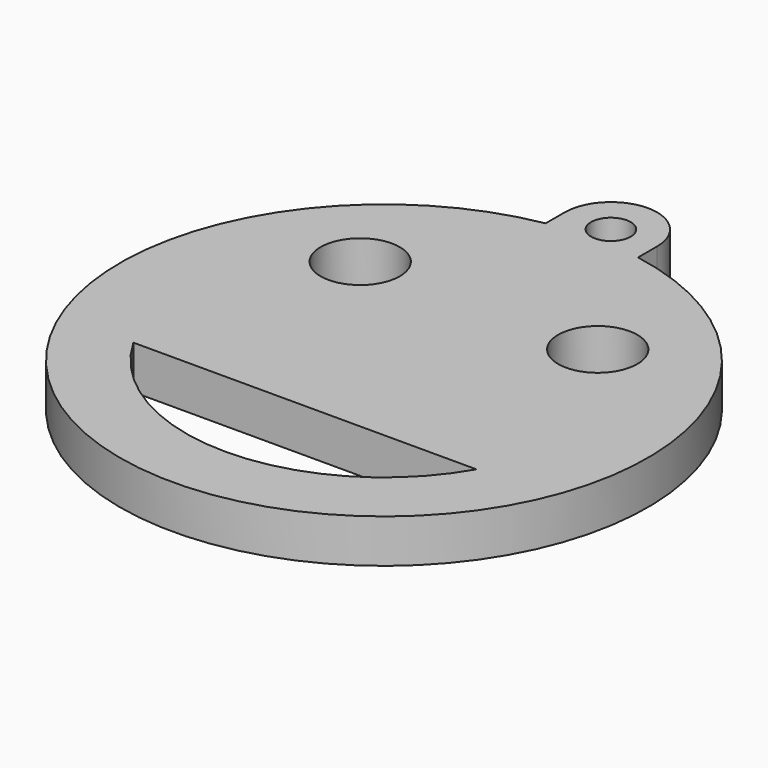
from build123d import *

# Parameters (mm, degrees)
EXTRUDE_DEPTH   = 3.3
SKETCH001_R     = 1.5
POCKET_DEPTH    = 3.301
SKETCH002_R     = 3
POCKET001_DEPTH = 5


with BuildPart() as part:
    # Sketch → Extrude (new body)
    with BuildSketch(Plane.XY):
        with BuildLine():
            ThreePointArc((3.5, 21.5), (0, 25), (-3.5, 21.5))
            Line((-3.5, 21.5), (-3.5, 19.691369))
            ThreePointArc((-3.5, 19.691369), (0, -20), (3.5, 19.691369))
            Line((3.5, 19.691369), (3.5, 21.5))
        make_face()
    extrude(amount=EXTRUDE_DEPTH)

    # Sketch001 → Pocket (cut, through all)
    with BuildSketch(Plane.XY.offset(3.3)):
        with Locations((0, 21.5)):
            Circle(SKETCH001_R)
    extrude(amount=-POCKET_DEPTH, mode=Mode.SUBTRACT)

    # Sketch002 → Pocket001 (cut)
    with BuildSketch(Plane.XY.offset(3.3)):
        with Locations((-9, 9)):
            Circle(SKETCH002_R)
        with Locations((9, 9)):
            Circle(SKETCH002_R)
        with BuildLine():
            ThreePointArc((-13, -7.483315), (0, -15), (13, -7.483315))
            Line((-13, -7.483315), (13, -7.483315))
        make_face()
    extrude(amount=-POCKET001_DEPTH, mode=Mode.SUBTRACT)


solid = part.part
